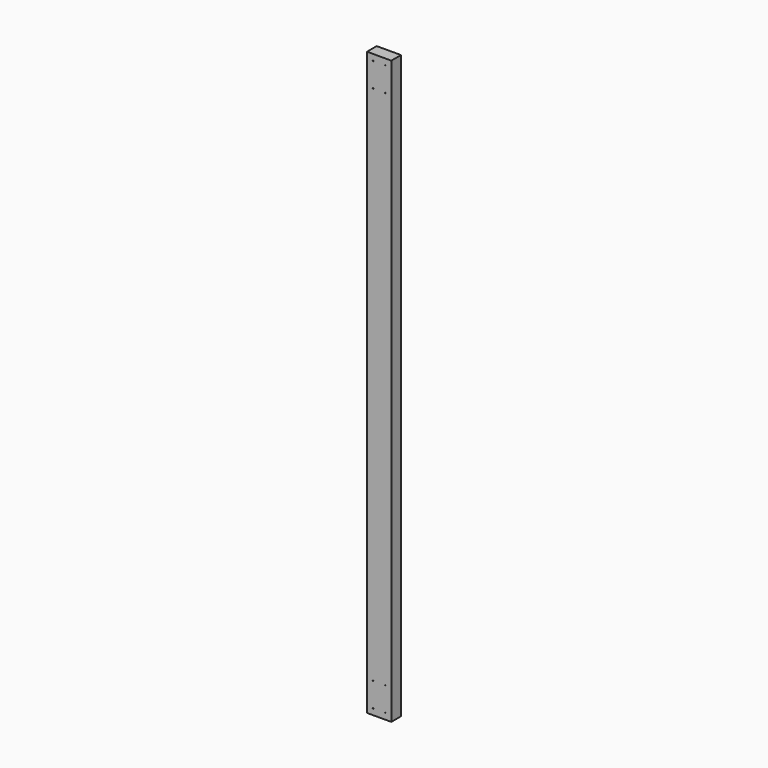
from build123d import *

# Parameters (mm, degrees)
F0_W     = 101.6
F0_H     = 2438.4
F0_R     = 1.5875
F1_DEPTH = 50.8


with BuildPart() as f1:
    # F0 (on Front) → F1 (new body)
    with BuildSketch(Plane.XZ):
        with Locations((-25.4, -6.902985)):
            Rectangle(F0_W, F0_H)
        with Locations((-50.8, -1200.702985)):
            Circle(F0_R, mode=Mode.SUBTRACT)
        with Locations((-50.8, -1099.102985)):
            Circle(F0_R, mode=Mode.SUBTRACT)
        with Locations((0, -1200.702985)):
            Circle(F0_R, mode=Mode.SUBTRACT)
        with Locations((0, -1099.102985)):
            Circle(F0_R, mode=Mode.SUBTRACT)
        with Locations((-50.8, 1085.297015)):
            Circle(F0_R, mode=Mode.SUBTRACT)
        with Locations((-50.8, 1186.897015)):
            Circle(F0_R, mode=Mode.SUBTRACT)
        with Locations((0, 1085.297015)):
            Circle(F0_R, mode=Mode.SUBTRACT)
        with Locations((0, 1186.897015)):
            Circle(F0_R, mode=Mode.SUBTRACT)
    extrude(amount=F1_DEPTH)


solid = f1.part
